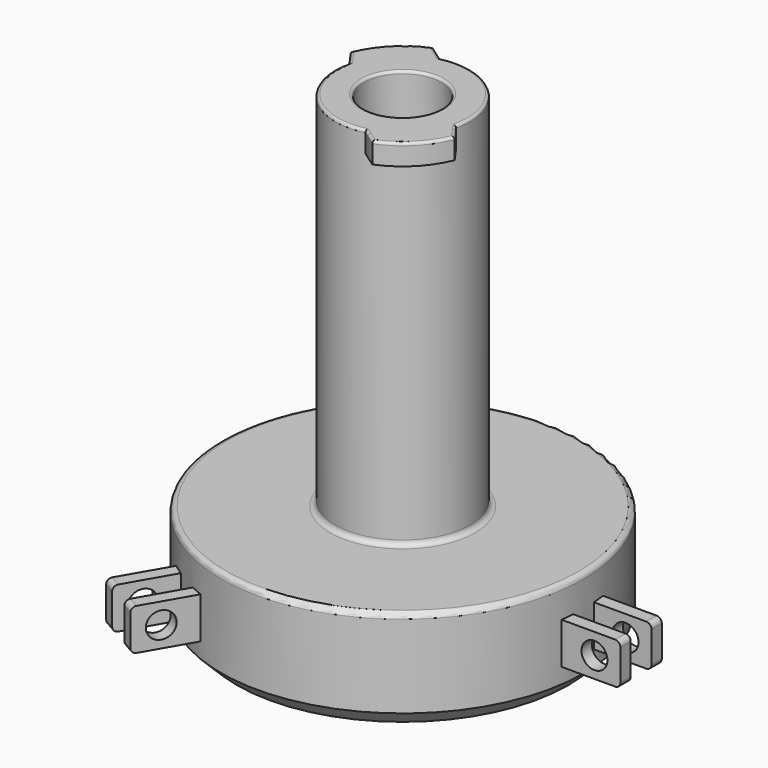
from build123d import *

# Parameters (mm, degrees)
F0_R      = 44.45
F0_R_2    = 16.51
F1_DEPTH  = 25.4
F2_DEPTH  = 114.3
F3_R      = 3.175
F4_DEPTH  = 6.35
F5_DEPTH  = 3.175
F6_R      = 1.27
F7_SIZE   = 3.81
F8_COUNT  = 3
F10_DEPTH = 5.08
F11_R     = 9.525
F12_DEPTH = 12.7
F13_R     = 0.635


with BuildPart() as f1:
    # F0 (on Top) → F1 (new body)
    with BuildSketch(Plane.XY):
        Circle(F0_R)
        Circle(F0_R_2, mode=Mode.SUBTRACT)
        Circle(F0_R_2)
    extrude(amount=F1_DEPTH)

    # F0 (on Top) → F2 (join)
    with BuildSketch(Plane.XY):
        Circle(F0_R_2)
    extrude(amount=F2_DEPTH)

    # F3 (on Front) → F4 (join, symmetric)
    with BuildSketch(Plane.XZ):
        with BuildLine():
            Line((57.15, 17.78), (40.64, 17.78))
            Line((40.64, 17.78), (40.64, 7.62))
            Line((40.64, 7.62), (57.15, 7.62))
            ThreePointArc((57.15, 7.62), (58.0480256121, 7.9919743879), (58.42, 8.89))
            Line((58.42, 8.89), (58.42, 16.51))
            ThreePointArc((58.42, 16.51), (58.0480256121, 17.4080256121), (57.15, 17.78))
        make_face()
        with Locations((52.07, 12.7)):
            Circle(F3_R, mode=Mode.SUBTRACT)
    extrude(amount=F4_DEPTH, both=True)

    # F3 (on Front) → F5 (cut, symmetric)
    with BuildSketch(Plane.XZ):
        with BuildLine():
            Line((57.15, 17.78), (40.64, 17.78))
            Line((40.64, 17.78), (40.64, 7.62))
            Line((40.64, 7.62), (57.15, 7.62))
            ThreePointArc((57.15, 7.62), (58.0480256121, 7.9919743879), (58.42, 8.89))
            Line((58.42, 8.89), (58.42, 16.51))
            ThreePointArc((58.42, 16.51), (58.0480256121, 17.4080256121), (57.15, 17.78))
        make_face()
        with Locations((52.07, 12.7)):
            Circle(F3_R, mode=Mode.SUBTRACT)
    extrude(amount=F5_DEPTH, both=True, mode=Mode.SUBTRACT)

    # F6
    f6_edges = [f1.edges().sort_by_distance(p)[0] for p in [
        (-44.45, 0, 25.4),
        (-16.51, 0, 25.4),
    ]]
    fillet(f6_edges, radius=F6_R)

    # F7
    f7_edges = [f1.edges().sort_by_distance(p)[0] for p in [
        (-44.45, 0, 0),
    ]]
    chamfer(f7_edges, length=F7_SIZE)

    # F8: F1 ×3 about axis
    f8_axis = Axis((0, 0, 0), (0, 0, -1))


with BuildPart() as f1_1:
    add(f1.part)
    for i in range(1, F8_COUNT):
        add(f1.part.rotate(f8_axis, i * 360 / F8_COUNT))

    # F9 (on face) → F10 (join)
    with BuildSketch(Plane.XY.offset(114.3)):
        with BuildLine():
            ThreePointArc((-16.0831121405, 3.730094352), (-11.6743329574, 11.6743329574), (-3.730094352, 16.0831121405))
            Line((-3.730094352, 16.0831121405), (-5.08, 17.0388379885))
            Line((-5.08, 17.0388379885), (-7.62, 18.8371441572))
            ThreePointArc((-7.62, 18.8371441572), (-14.3684097937, 14.3684097937), (-18.8371441572, 7.62))
            Line((-18.8371441572, 7.62), (-17.0388379885, 5.08))
            Line((-17.0388379885, 5.08), (-16.0831121405, 3.730094352))
        make_face()
        with BuildLine():
            Line((17.0388379885, -5.08), (16.0831121405, -3.730094352))
            ThreePointArc((16.0831121405, -3.730094352), (11.6743329574, -11.6743329574), (3.730094352, -16.0831121405))
            Line((3.730094352, -16.0831121405), (5.08, -17.0388379885))
            Line((5.08, -17.0388379885), (7.62, -18.8371441572))
            ThreePointArc((7.62, -18.8371441572), (14.3684097937, -14.3684097937), (18.8371441572, -7.62))
            Line((18.8371441572, -7.62), (17.0388379885, -5.08))
        make_face()
    extrude(amount=-F10_DEPTH)

    # F11 (on face) → F12 (cut)
    with BuildSketch(Plane.XY.offset(114.3)):
        Circle(F11_R)
    extrude(amount=-F12_DEPTH, mode=Mode.SUBTRACT)

    # F13
    f13_edges = [f1_1.edges().sort_by_distance(p)[0] for p in [
        (16.402931, -1.877221, 114.3),
        (10.271228, 12.926019, 114.3),
        (17.460128, -5.675047, 114.3),
        (-5.675047, 17.460128, 114.3),
        (14.36841, -14.36841, 114.3),
        (-14.36841, 14.36841, 114.3),
        (5.675047, -17.460128, 114.3),
        (-17.460128, 5.675047, 114.3),
        (-11.674333, -11.674333, 114.3),
        (-9.525, 0, 114.3),
    ]]
    fillet(f13_edges, radius=F13_R)


solid = f1_1.part
